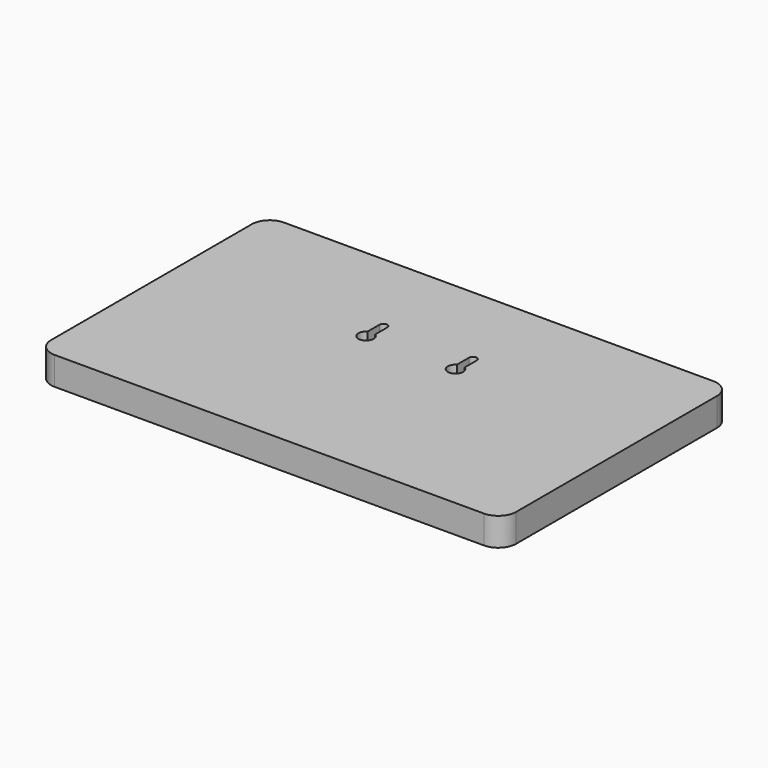
from build123d import *

# Parameters (mm, degrees)
SKETCH_W     = 182
SKETCH_H     = 112.2
PAD_DEPTH    = 11
POCKET_DEPTH = 5
FILLET_R     = 7


with BuildPart() as part:
    # Sketch → Pad (new body)
    with BuildSketch(Plane.XY):
        with Locations((91, 56.1)):
            Rectangle(SKETCH_W, SKETCH_H)
    extrude(amount=PAD_DEPTH)

    # Sketch001 (on Face6 of Pad) → Pocket (cut)
    with BuildSketch(Plane.XY.offset(11)):
        with BuildLine():
            ThreePointArc((75, 77.7), (73.5, 79.2), (72, 77.7))
            Line((72, 77.7), (72, 71.798076))
            ThreePointArc((72, 71.798076), (73.5, 66.2), (75, 71.798076))
            Line((75, 71.798076), (75, 77.7))
        make_face()
        with BuildLine():
            ThreePointArc((110, 77.7), (108.5, 79.2), (107, 77.7))
            Line((107, 77.7), (107, 71.798076))
            ThreePointArc((107, 71.798076), (108.5, 66.2), (110, 71.798076))
            Line((110, 71.798076), (110, 77.7))
        make_face()
    extrude(amount=-POCKET_DEPTH, mode=Mode.SUBTRACT)

    # Fillet
    fillet_edges = [part.edges().sort_by_distance(p)[0] for p in [
        (0, 0, 5.5),
        (182, 0, 5.5),
        (182, 112.2, 5.5),
        (0, 112.2, 5.5),
    ]]
    fillet(fillet_edges, radius=FILLET_R)


solid = part.part
